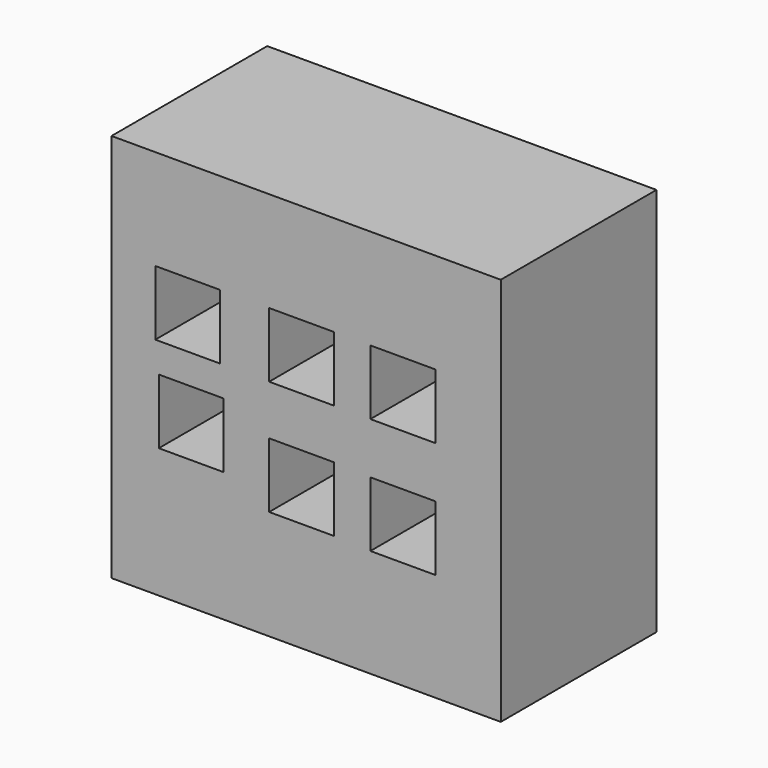
from build123d import *

# Parameters (mm, degrees)
F0_W     = 152.4
F0_H     = 152.4
F0_W_2   = 25.4
F0_H_2   = 25.4
F1_DEPTH = 76.2
F2_DEPTH = 38.1


with BuildPart() as f1:
    # F0 (on Front) → F1 (new body)
    with BuildSketch(Plane.XZ):
        Rectangle(F0_W, F0_H)
        with Locations((-44.986664, -12.7)):
            Rectangle(F0_W_2, F0_H_2, mode=Mode.SUBTRACT)
        with Locations((-1.790016, -20.641437)):
            Rectangle(F0_W_2, F0_H_2, mode=Mode.SUBTRACT)
        with Locations((37.85248, -21.188231)):
            Rectangle(F0_W_2, F0_H_2, mode=Mode.SUBTRACT)
        with Locations((-46.353645, 24.267597)):
            Rectangle(F0_W_2, F0_H_2, mode=Mode.SUBTRACT)
        with Locations((-1.790016, 24.267597)):
            Rectangle(F0_W_2, F0_H_2, mode=Mode.SUBTRACT)
        with Locations((37.85248, 24.267597)):
            Rectangle(F0_W_2, F0_H_2, mode=Mode.SUBTRACT)
    extrude(amount=F1_DEPTH)

    # F0 (on Front) → F2 (join)
    with BuildSketch(Plane.XZ):
        with Locations((-46.353645, 24.267597)):
            Rectangle(F0_W_2, F0_H_2)
        with Locations((-1.790016, 24.267597)):
            Rectangle(F0_W_2, F0_H_2)
        with Locations((37.85248, 24.267597)):
            Rectangle(F0_W_2, F0_H_2)
        with Locations((-1.790016, -20.641437)):
            Rectangle(F0_W_2, F0_H_2)
        with Locations((-44.986664, -12.7)):
            Rectangle(F0_W_2, F0_H_2)
        with Locations((37.85248, -21.188231)):
            Rectangle(F0_W_2, F0_H_2)
    extrude(amount=F2_DEPTH)


solid = f1.part
